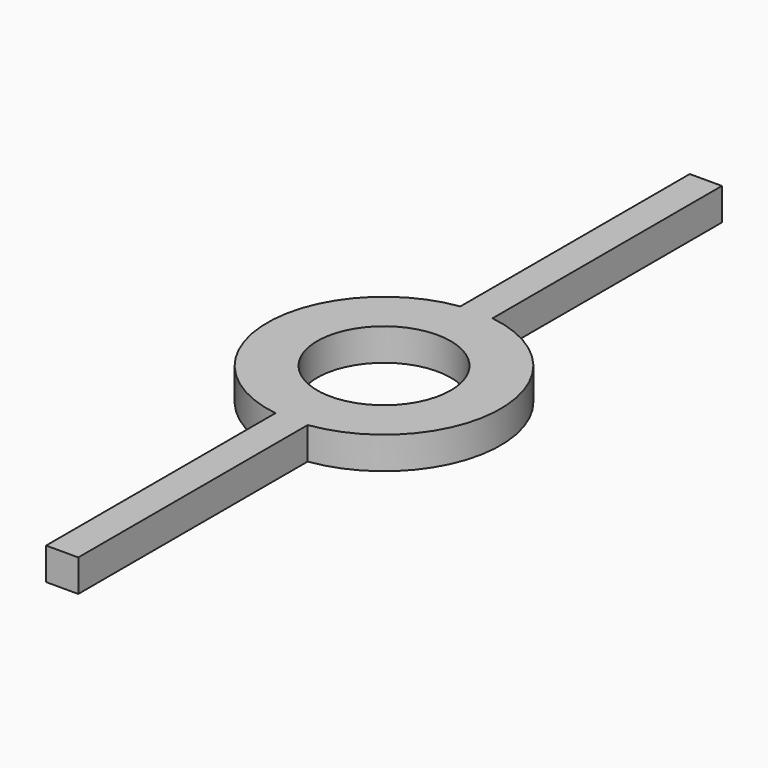
from build123d import *

# Parameters (mm, degrees)
F0_R          = 7.25
F1_DEPTH      = 2
F4_W          = 2
F4_H          = 2
F2_DEPTH      = 25
F2_DEPTH_BACK = 25
F3_R          = 4.15
F5_DEPTH      = 25


with BuildPart() as f1:
    # F0 (on Top) → F1 (new body)
    with BuildSketch(Plane.XY):
        Circle(F0_R)
    extrude(amount=F1_DEPTH)

    # F4 (on Front) → F2 (join, two sides)
    with BuildSketch(Plane.XZ) as f2_sk:
        with Locations((0, 1)):
            Rectangle(F4_W, F4_H)
    extrude(amount=F2_DEPTH)
    extrude(f2_sk.sketch, amount=-F2_DEPTH_BACK)

    # F3 (on face) → F5 (cut)
    with BuildSketch(Plane(origin=(0, 0, 0), x_dir=(1, 0, 0), z_dir=(0, 0, -1))):
        Circle(F3_R)
    extrude(amount=-F5_DEPTH, mode=Mode.SUBTRACT)


solid = f1.part
